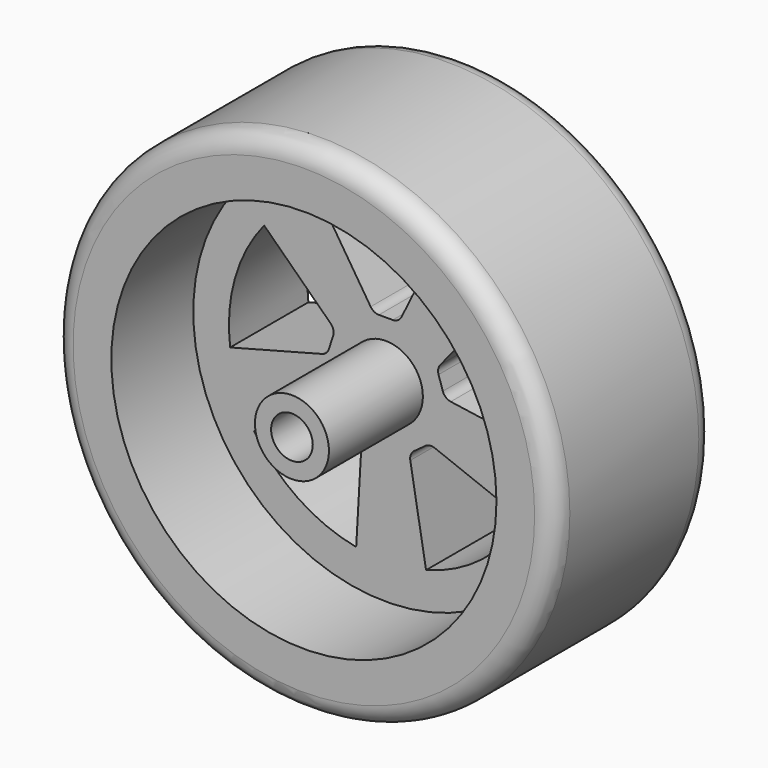
from build123d import *

# Parameters (mm, degrees)
F0_R     = 32.5
F0_R_2   = 25
F1_DEPTH = 26
F2_R     = 25
F3_DEPTH = 12.7
F4_R     = 4.806175
F4_R_2   = 2.704829
F5_DEPTH = 15.24
F6_R     = 2.54


with BuildPart() as f1:
    # F0 (on Front) → F1 (new body)
    with BuildSketch(Plane.XZ):
        Circle(F0_R)
        Circle(F0_R_2, mode=Mode.SUBTRACT)
    extrude(amount=F1_DEPTH)

    # F6
    f6_edges = [f1.edges().sort_by_distance(p)[0] for p in [
        (-32.5, -26, 0),
        (-32.5, 0, 0),
    ]]
    fillet(f6_edges, radius=F6_R)


with BuildPart() as f3:
    # F2 (on Front) → F3 (new body)
    with BuildSketch(Plane.XZ):
        Circle(F2_R)
        with BuildLine():
            Line((-3.148287, -7.687387), (-3.851863, -20.00639))
            ThreePointArc((-3.851863, -20.00639), (-11.399966, -16.885889), (-17.115929, -11.051581))
            Line((-17.115929, -11.051581), (-6.463452, -5.434556))
            ThreePointArc((-6.463452, -5.434556), (-5.780317, -5.291195), (-5.124603, -5.530495))
            Line((-5.124603, -5.530495), (-3.669734, -6.58752))
            ThreePointArc((-3.669734, -6.58752), (-3.268658, -7.070913), (-3.148287, -7.687387))
        make_face(mode=Mode.SUBTRACT)
        with BuildLine():
            Line((6.338265, -5.369732), (17.836916, -9.845654))
            ThreePointArc((17.836916, -9.845654), (12.536652, -16.060039), (5.221565, -19.693342))
            Line((5.221565, -19.693342), (3.171253, -7.826478))
            ThreePointArc((3.171253, -7.826478), (3.246009, -7.132478), (3.676224, -6.582804))
            Line((3.676224, -6.582804), (5.131094, -5.52578))
            ThreePointArc((5.131094, -5.52578), (5.714767, -5.293711), (6.338265, -5.369732))
        make_face(mode=Mode.SUBTRACT)
        with BuildLine():
            ThreePointArc((-20.217498, -2.518975), (-19.582218, 5.623985), (-15.799791, 12.86309))
            Line((-15.799791, 12.86309), (-7.165886, 4.467738))
            ThreePointArc((-7.165886, 4.467738), (-6.818442, 3.862339), (-6.843403, 3.16477))
            Line((-6.843403, 3.16477), (-7.399114, 1.454469))
            ThreePointArc((-7.399114, 1.454469), (-7.734909, 0.923647), (-8.284014, 0.618666))
            Line((-8.284014, 0.618666), (-20.217498, -2.518975))
        make_face(mode=Mode.SUBTRACT)
        with BuildLine():
            Line((-1.971515, 8.069744), (-8.643238, 18.449577))
            ThreePointArc((-8.643238, 18.449577), (-0.70251, 20.361703), (7.351121, 19.001408))
            Line((7.351121, 19.001408), (2.034691, 8.19577))
            ThreePointArc((2.034691, 8.19577), (1.566288, 7.678252), (0.895148, 7.486431))
            Line((0.895148, 7.486431), (-0.90317, 7.486431))
            ThreePointArc((-0.90317, 7.486431), (-1.511778, 7.641758), (-1.971515, 8.069744))
        make_face(mode=Mode.SUBTRACT)
        with BuildLine():
            Line((7.065551, 4.36871), (14.875683, 13.921441))
            ThreePointArc((14.875683, 13.921441), (19.148043, 6.960239), (20.343034, -1.119574))
            Line((20.343034, -1.119574), (8.423394, 0.597526))
            ThreePointArc((8.423394, 0.597526), (7.786461, 0.883082), (7.396635, 1.462099))
            Line((7.396635, 1.462099), (6.840924, 3.1724))
            ThreePointArc((6.840924, 3.1724), (6.800578, 3.799219), (7.065551, 4.36871))
        make_face(mode=Mode.SUBTRACT)
    extrude(amount=F3_DEPTH)

    # F4 (on face) → F5 (join)
    with BuildSketch(Plane.XZ.offset(12.7)):
        Circle(F4_R)
        Circle(F4_R_2, mode=Mode.SUBTRACT)
    extrude(amount=F5_DEPTH)


solid = Compound([f1.part, f3.part])
